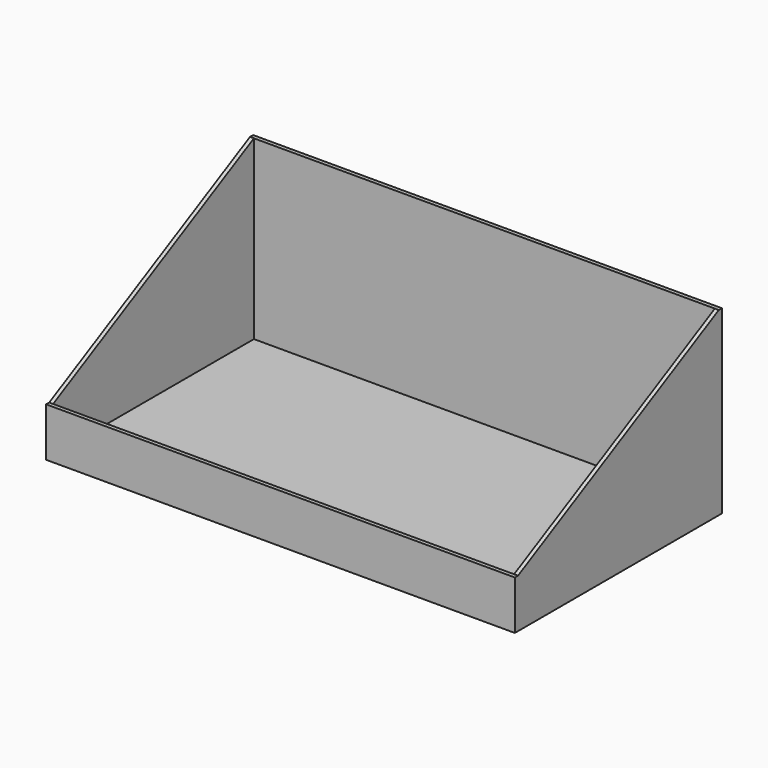
from build123d import *

# Parameters (mm, degrees)
F0_W     = 480
F0_H     = 185
F1_DEPTH = 265
F3_DEPTH = 480
F5_W     = 472
F5_H     = 257
F6_DEPTH = 181


with BuildPart() as f1:
    # F0 (on Front) → F1 (new body)
    with BuildSketch(Plane.XZ):
        with Locations((-240, 92.5)):
            Rectangle(F0_W, F0_H)
    extrude(amount=-F1_DEPTH)

    # F2 (on Right) → F3 (cut, through all)
    with BuildSketch(Plane.YZ):
        Polygon((0, 50), (4, 50), (261, 185), (0, 185), align=None)
    extrude(amount=-F3_DEPTH, mode=Mode.SUBTRACT)

    # F5 (on plane+point) → F6 (cut)
    with BuildSketch(Plane.XY.offset(185)):
        with Locations((-240, 132.5)):
            Rectangle(F5_W, F5_H)
    extrude(amount=-F6_DEPTH, mode=Mode.SUBTRACT)


solid = f1.part
